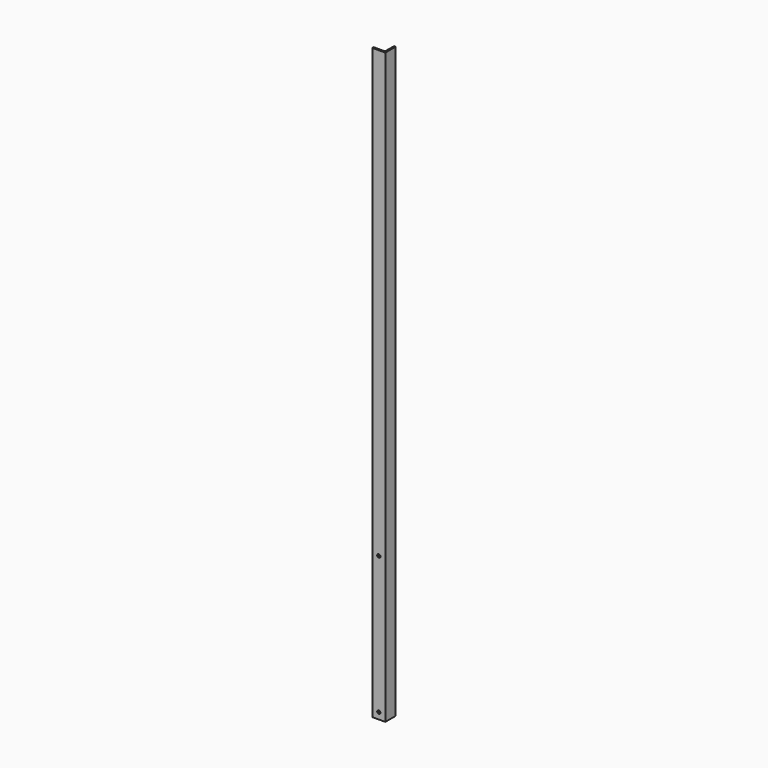
from build123d import *

# Parameters (mm, degrees)
F1_DEPTH = 1727.2
F2_R     = 4.7625
F3_DEPTH = 38.101
F4_R     = 4.7625
F5_DEPTH = 38.101


with BuildPart() as f1:
    # F0 (on Top) → F1 (new body)
    with BuildSketch(Plane.XY):
        Polygon((0, 4.7625), (0, 0), (38.1, 0), (38.1, 38.1), (33.3375, 38.1), (33.3375, 4.7625), align=None)
    extrude(amount=F1_DEPTH)

    # F2 (on face) → F3 (cut, through all)
    with BuildSketch(Plane.XZ):
        with Locations((19.05, 19.05)):
            Circle(F2_R)
    extrude(amount=-F3_DEPTH, mode=Mode.SUBTRACT)

    # F4 (on face) → F5 (cut, through all)
    with BuildSketch(Plane.XZ):
        with Locations((19.05, 422.275)):
            Circle(F4_R)
    extrude(amount=-F5_DEPTH, mode=Mode.SUBTRACT)


solid = f1.part
